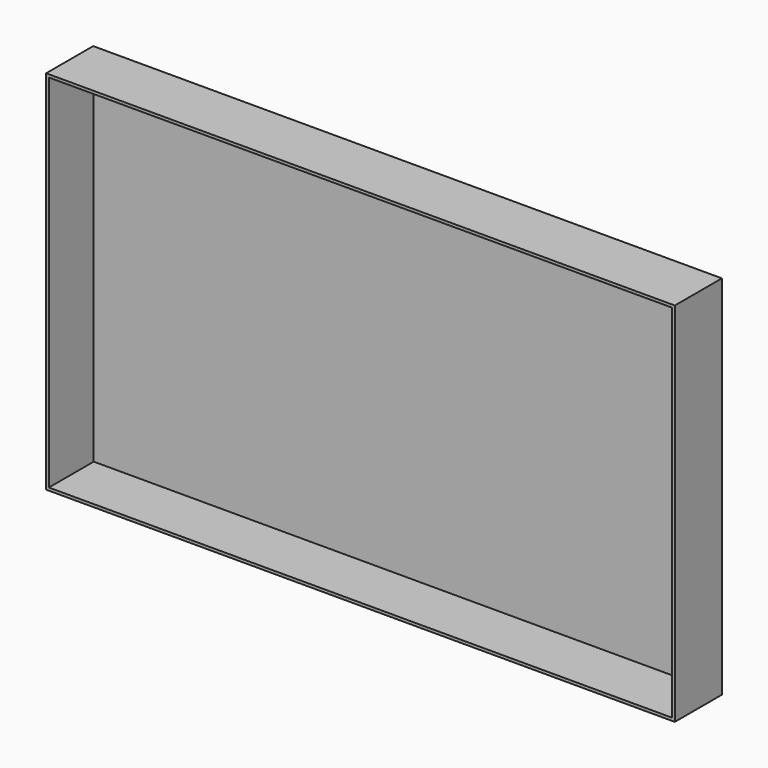
from build123d import *

# Parameters (mm, degrees)
F0_W     = 282.4072241783
F0_H     = 163.6070981622
F1_DEPTH = 12.7
F2_T     = 1.27


with BuildPart() as f1:
    # F0 (on Front) → F1 (new body, symmetric)
    with BuildSketch(Plane.XZ):
        with Locations((-11.30451262, -0.4110746086)):
            Rectangle(F0_W, F0_H)
    extrude(amount=F1_DEPTH, both=True)

    # F2
    f2_openings = [f1.faces().sort_by_distance(p)[0] for p in [
        (-11.304513, -12.7, -0.411075),
    ]]
    offset(amount=F2_T, openings=f2_openings, kind=Kind.INTERSECTION)


solid = f1.part
